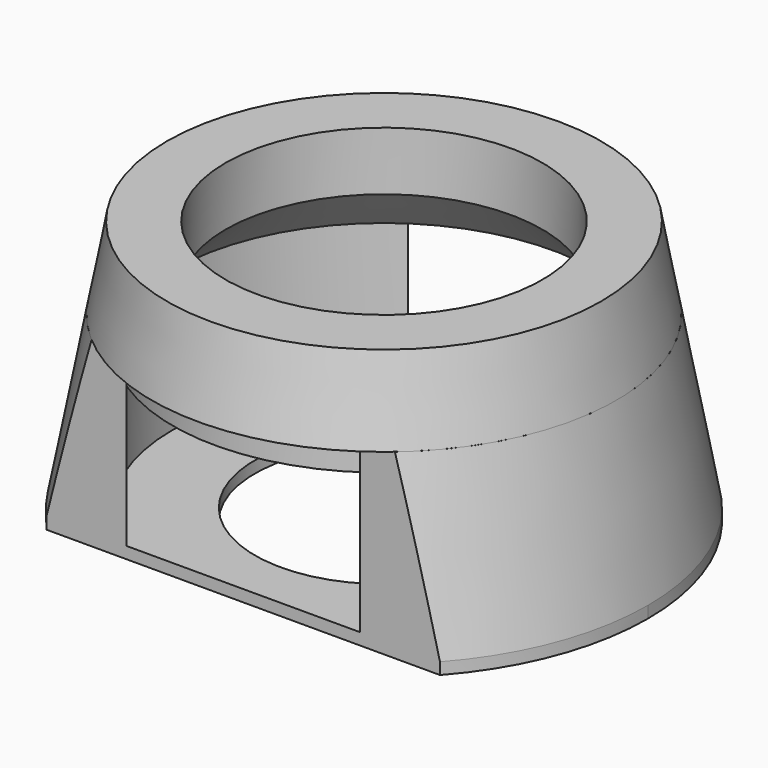
from build123d import *

# Parameters (mm, degrees)
F0_R     = 11
F3_DEPTH = 25
F4_DEPTH = 1


with BuildPart() as f2:
    # F1 (on Front) → F2 (revolve)
    with BuildSketch(Plane.XZ):
        Polygon((-22.5, 0), (-18, 0), (-18, 12), (-18, 14.5), (-19.802326, 14.5), align=None)
    revolve(axis=Axis((0, 0, 2.402903), (0, 0, -1)))

    # F0 (on Top) → F3 (intersect)
    with BuildSketch(Plane.XY):
        with BuildLine():
            ThreePointArc((22.5, 0), (21.018878, -8.028497), (16.77051, -15))
            Line((16.77051, -15), (22.5, -15))
            Line((22.5, -15), (22.5, 0))
        make_face()
        with BuildLine():
            ThreePointArc((-9.949874, -15), (-18, 0), (-9.949874, 15))
            Line((-9.949874, 15), (-16.77051, 15))
            ThreePointArc((-16.77051, 15), (-21.018878, 8.028497), (-22.5, 0))
            ThreePointArc((-22.5, 0), (-21.018878, -8.028497), (-16.77051, -15))
            Line((-16.77051, -15), (-9.949874, -15))
        make_face()
        with BuildLine():
            Line((22.5, 15), (16.77051, 15))
            ThreePointArc((16.77051, 15), (21.018878, 8.028497), (22.5, 0))
            Line((22.5, 0), (22.5, 15))
        make_face()
        with BuildLine():
            ThreePointArc((9.949874, -15), (15.860292, -8.511823), (18, 0))
            ThreePointArc((18, 0), (15.860292, 8.511823), (9.949874, 15))
            Line((9.949874, 15), (-9.949874, 15))
            ThreePointArc((-9.949874, 15), (-18, 0), (-9.949874, -15))
            Line((-9.949874, -15), (9.949874, -15))
        make_face()
        Circle(F0_R, mode=Mode.SUBTRACT)
        Circle(F0_R)
        with BuildLine():
            ThreePointArc((9.949874, 15), (15.860292, 8.511823), (18, 0))
            ThreePointArc((18, 0), (15.860292, -8.511823), (9.949874, -15))
            Line((9.949874, -15), (16.77051, -15))
            ThreePointArc((16.77051, -15), (21.018878, -8.028497), (22.5, 0))
            ThreePointArc((22.5, 0), (21.018878, 8.028497), (16.77051, 15))
            Line((16.77051, 15), (9.949874, 15))
        make_face()
    extrude(amount=F3_DEPTH, mode=Mode.INTERSECT)

    # F0 (on Top) → F4 (join)
    with BuildSketch(Plane.XY):
        with BuildLine():
            ThreePointArc((-9.949874, -15), (-18, 0), (-9.949874, 15))
            Line((-9.949874, 15), (-16.77051, 15))
            ThreePointArc((-16.77051, 15), (-21.018878, 8.028497), (-22.5, 0))
            ThreePointArc((-22.5, 0), (-21.018878, -8.028497), (-16.77051, -15))
            Line((-16.77051, -15), (-9.949874, -15))
        make_face()
        with BuildLine():
            ThreePointArc((9.949874, -15), (15.860292, -8.511823), (18, 0))
            ThreePointArc((18, 0), (15.860292, 8.511823), (9.949874, 15))
            Line((9.949874, 15), (-9.949874, 15))
            ThreePointArc((-9.949874, 15), (-18, 0), (-9.949874, -15))
            Line((-9.949874, -15), (9.949874, -15))
        make_face()
        Circle(F0_R, mode=Mode.SUBTRACT)
        with BuildLine():
            ThreePointArc((9.949874, 15), (15.860292, 8.511823), (18, 0))
            ThreePointArc((18, 0), (15.860292, -8.511823), (9.949874, -15))
            Line((9.949874, -15), (16.77051, -15))
            ThreePointArc((16.77051, -15), (21.018878, -8.028497), (22.5, 0))
            ThreePointArc((22.5, 0), (21.018878, 8.028497), (16.77051, 15))
            Line((16.77051, 15), (9.949874, 15))
        make_face()
    extrude(amount=-F4_DEPTH)


with BuildPart() as f5:
    # F1 (on Front) → F5 (revolve)
    with BuildSketch(Plane.XZ):
        Polygon((-18, 14.5), (-18, 12), (-13.5, 16.5), (-13.5, 21.5), (-18.5, 21.5), (-19.802326, 14.5), align=None)
    revolve(axis=Axis((0, 0, 2.402903), (0, 0, -1)))


solid = Compound([f2.part, f5.part])
